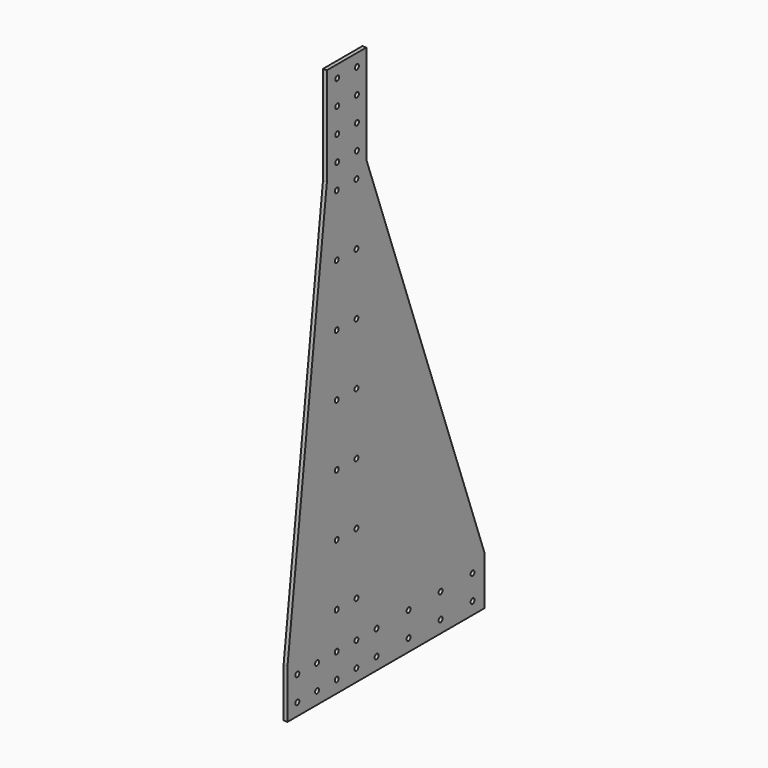
from build123d import *

# Parameters (mm, degrees)
F1_DEPTH = 6.35
F2_R     = 4
F3_DEPTH = 6.351


with BuildPart() as f1:
    # F0 (on Right) → F1 (new body)
    with BuildSketch(Plane.YZ):
        Polygon((-120, 0), (0, 0), (280, 0), (280, 80), (40, 740), (40, 900), (-39.999999, 900), (-39.999999, 740), (-120, 80), align=None)
    extrude(amount=F1_DEPTH)

    # F2 (on face) → F3 (cut, through all)
    with BuildSketch(Plane.YZ.offset(6.35)):
        with Locations((-19.001024, 880)):
            Circle(F2_R)
        with Locations((-19.001024, 800)):
            Circle(F2_R)
        with Locations((-19.001024, 840)):
            Circle(F2_R)
        with Locations((-19.001024, 760)):
            Circle(F2_R)
        with Locations((20.998976, 880)):
            Circle(F2_R)
        with Locations((20.998976, 800)):
            Circle(F2_R)
        with Locations((20.998976, 840)):
            Circle(F2_R)
        with Locations((20.998976, 760)):
            Circle(F2_R)
        with Locations((-100, 20)):
            Circle(F2_R)
        with Locations((-100, 60)):
            Circle(F2_R)
        with Locations((-60, 20)):
            Circle(F2_R)
        with Locations((-60, 60)):
            Circle(F2_R)
        with Locations((256, 20)):
            Circle(F2_R)
        with Locations((256, 60)):
            Circle(F2_R)
        with Locations((191, 20)):
            Circle(F2_R)
        with Locations((191, 60)):
            Circle(F2_R)
        with Locations((126, 20)):
            Circle(F2_R)
        with Locations((126, 60)):
            Circle(F2_R)
        with Locations((61, 20)):
            Circle(F2_R)
        with Locations((61, 60)):
            Circle(F2_R)
        with Locations((20, 20)):
            Circle(F2_R)
        with Locations((20, 120)):
            Circle(F2_R)
        with Locations((20, 220)):
            Circle(F2_R)
        with Locations((20, 320)):
            Circle(F2_R)
        with Locations((20, 420)):
            Circle(F2_R)
        with Locations((20, 520)):
            Circle(F2_R)
        with Locations((20, 620)):
            Circle(F2_R)
        with Locations((20, 720)):
            Circle(F2_R)
        with Locations((-20, 20)):
            Circle(F2_R)
        with Locations((-20, 120)):
            Circle(F2_R)
        with Locations((-20, 220)):
            Circle(F2_R)
        with Locations((-20, 320)):
            Circle(F2_R)
        with Locations((-20, 420)):
            Circle(F2_R)
        with Locations((-20, 520)):
            Circle(F2_R)
        with Locations((-20, 620)):
            Circle(F2_R)
        with Locations((-20, 720)):
            Circle(F2_R)
        with Locations((20, 60)):
            Circle(F2_R)
        with Locations((-20, 60)):
            Circle(F2_R)
    extrude(amount=-F3_DEPTH, mode=Mode.SUBTRACT)


solid = f1.part
